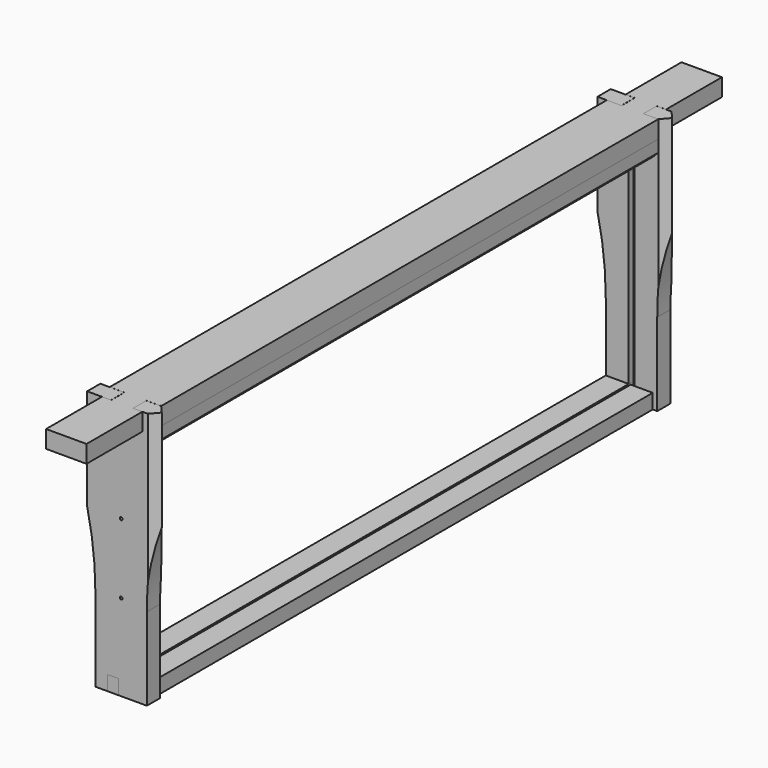
from build123d import *

# Parameters (mm, degrees)
F1_DEPTH  = 19.05
F2_W      = 19.9896149511
F2_H      = 15.3696622014
F3_DEPTH  = 338.0011464902
F5_DEPTH  = 28.001
F6_W      = 337.9676082338
F6_H      = 9.525
F7_DEPTH  = 15
F8_SIZE   = 3
F9_R      = 0.75
F10_DEPTH = 9
F11_W     = 3
F11_H     = 4.0192092803
F12_DEPTH = 140.001
F16_DEPTH = 8
F15_W     = 12
F15_H     = 337.9676082336


with BuildPart() as f1:
    # F0 (on Top) → F1 (new body)
    with BuildSketch(Plane.XY):
        Polygon((25.0524798076, 0.0334885936), (33.0524798076, 0.0346371813), (33.0524798076, 338.0346385675), (25.0524798078, 338.0357871552), (25.0524798076, 347.0357857691), (30.0524798076, 347.0357857691), (30.0524798076, 385.0357857691), (8.0524798076, 385.0367226312), (8.0524798076, 347.0278060534), (13.0524798076, 347.0278060534), (13.0524798076, 338.0278060534), (5.0524798076, 338.0280407086), (5.0524798076, 0.0412336541), (13.0524798076, 0.0414683092), (13.0524798076, -8.8674482686), (8.0524798076, -8.8674482686), (8.0524798076, -46.9674482686), (30.0524798076, -46.9665114967), (30.0524798076, -8.9665114064), (25.0524798076, -8.9665114064), align=None)
    extrude(amount=-F1_DEPTH)

    # F2 (on face) → F3 (cut, through all)
    with BuildSketch(Plane(origin=(-4.2917e-06, 0.0298917216, 0), x_dir=(0.9999999897, 0.0001435735, 0), z_dir=(0.0001435735, -0.9999999897, 0))):
        with Locations((27.4078074756, -17.2098311007)):
            Rectangle(F2_W, F2_H)
    extrude(amount=-F3_DEPTH, mode=Mode.SUBTRACT)

    # F4 (on face) → F5 (cut, through all)
    with BuildSketch(Plane.YZ.offset(33.0524798076)):
        Polygon((0, -22.5851237774), (0, -9.525), (-57.0387654006, -9.525), (-57.0387654006, -22.2101248801), align=None)
        Polygon((338.0346385675, -9.525), (338, -9.525), (338, -24.2499262094), (394.569247961, -24.2499262094), (394.4216072559, -9.525), align=None)
    extrude(amount=-F5_DEPTH, mode=Mode.SUBTRACT)


with BuildPart() as f7:
    # F6 (on face) → F7 (new body)
    with BuildSketch(Plane.YZ.offset(33.0524798076)):
        with Locations((169.0161958831, -14.2875)):
            Rectangle(F6_W, F6_H)
    extrude(amount=-F7_DEPTH)

    # F8
    f8_edges = [f7.edges().sort_by_distance(p)[0] for p in [
        (33.05248, 169.016196, -19.05),
    ]]
    chamfer(f8_edges, length=F8_SIZE)


with BuildPart() as f10:
    # F9 (on Front) → F10 (new body)
    with BuildSketch(Plane.XZ):
        with BuildLine():
            Line((13, 0), (0, 0))
            Line((0, 0), (0, -55))
            ThreePointArc((0, -55), (3.3714627785, -74.8738354374), (4.5, -95))
            Line((4.5, -95), (4.5, -140))
            Line((4.5, -140), (11, -140))
            Line((11, -140), (11, -132))
            Line((11, -132), (17, -132))
            Line((17, -132), (17, -140))
            Line((17, -140), (32.5, -140))
            Line((32.5, -140), (32.5, -95))
            ThreePointArc((32.5, -95), (33.6285372215, -74.8738354374), (37, -55))
            Line((37, -55), (37, 0))
            Line((37, 0), (25, 0))
            Line((25, 0), (25, -9))
            Line((25, -9), (13, -9))
            Line((13, -9), (13, 0))
        make_face()
        with Locations((18.5, -93)):
            Circle(F9_R, mode=Mode.SUBTRACT)
        with Locations((18.5, -55)):
            Circle(F9_R, mode=Mode.SUBTRACT)
    extrude(amount=F10_DEPTH)

    # F11 (on Top) → F12 (cut, through all)
    with BuildSketch(Plane.XY):
        with Locations((18.5, -1.1903953598)):
            Rectangle(F11_W, F11_H)
        Polygon((33.0799296498, 0), (37, -4.5), (33.0799296498, -9), (38.3763611317, -11.9362315163), (38.3763611317, 3.0553650577), align=None)
    extrude(amount=-F12_DEPTH, mode=Mode.SUBTRACT)


with BuildPart() as f14_1:
    # F14: instance of F10
    add(f10.part.mirror(Plane.XZ.offset(-169)))


with BuildPart() as f16:
    # F15 (on face) → F16 (new body, through all)
    with BuildSketch(Plane(origin=(0, 0, -140), x_dir=(1, 0, 0), z_dir=(0, 0, -1))):
        Polygon((17, 9), (11, 9), (11, 0), (4.5, 0), (4.5, -338), (11, -338), (11, -347), (17, -347), align=None)
    extrude(amount=-F16_DEPTH)


with BuildPart() as f16b:
    # F15 (on face) → F16, piece 2 (new body, through all)
    with BuildSketch(Plane(origin=(0, 0, -140), x_dir=(1, 0, 0), z_dir=(0, 0, -1))):
        with Locations((24.0524798076, -169.0161958832)):
            Rectangle(F15_W, F15_H)
    extrude(amount=-F16_DEPTH)


solid = Compound([f1.part, f7.part, f10.part, f14_1.part, f16.part, f16b.part])
